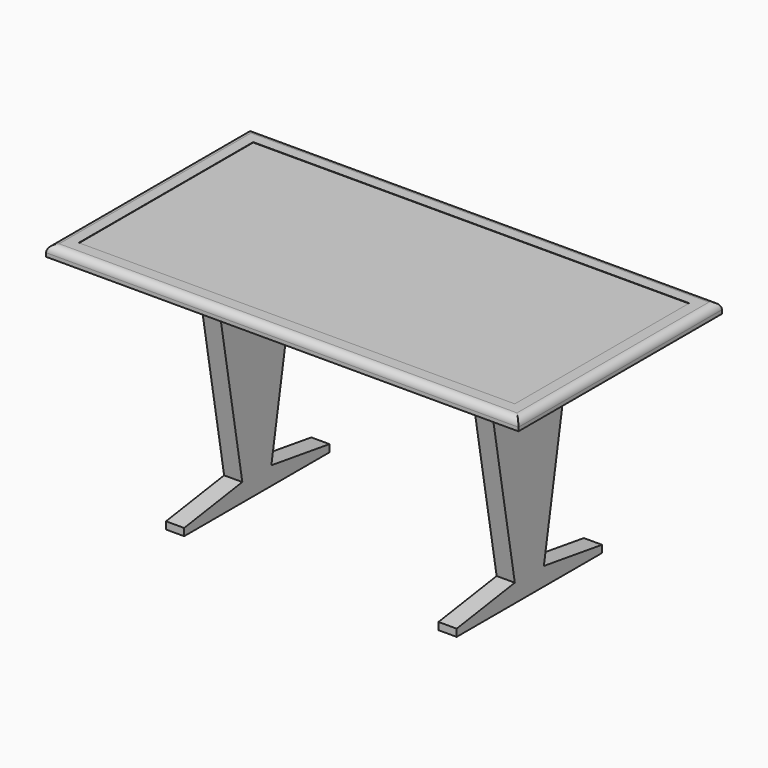
from build123d import *

# Parameters (mm, degrees)
F0_W     = 650
F0_H     = 700
F1_DEPTH = 30
F3_START = 350
F3_DEPTH = 50
F5_R     = 20
F6_W     = 1200
F6_H     = 600
F7_DEPTH = 1


with BuildPart() as f1:
    # F0 (on Top) → F1 (new body)
    with BuildSketch(Plane.XY):
        with Locations((325, 0)):
            Rectangle(F0_W, F0_H)
    extrude(amount=-F1_DEPTH)

    # F2 (on Right) → F3 (join)
    with BuildSketch(Plane.YZ.offset(F3_START)):
        Polygon((150, -30), (0, -30), (0, -650), (250, -650), (250, -630), (50, -600), align=None)
        Polygon((0, -650), (0, -30), (-150, -30), (-50, -600), (-250, -630), (-250, -650), align=None)
    extrude(amount=F3_DEPTH)

    # F4: F1 across plane


with BuildPart() as f1_1:
    add(f1.part)
    add(f1.part.mirror(Plane.YZ))

    # F5
    f5_edges = [f1_1.edges().sort_by_distance(p)[0] for p in [
        (0, 350, 0),
        (-650, 0, 0),
        (0, -350, 0),
        (650, 0, 0),
    ]]
    fillet(f5_edges, radius=F5_R)

    # F6 (on Top) → F7 (cut)
    with BuildSketch(Plane.XY):
        Rectangle(F6_W, F6_H)
    extrude(amount=-F7_DEPTH, mode=Mode.SUBTRACT)


solid = f1_1.part
